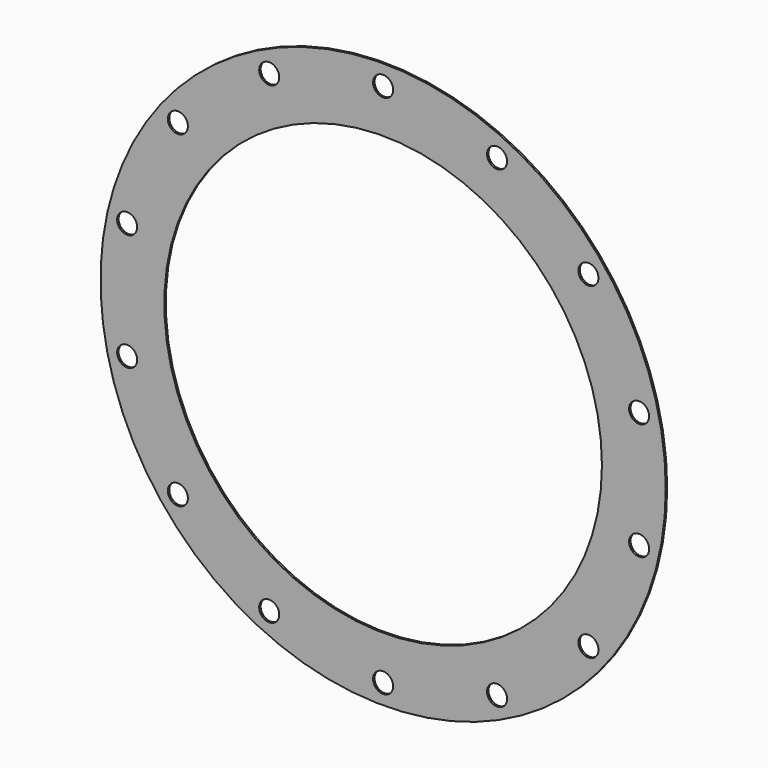
from build123d import *

# Parameters (mm, degrees)
F0_R     = 492.125
F0_R_2   = 17.4625
F0_R_3   = 381
F1_DEPTH = 3.175


with BuildPart() as f1:
    # F0 (on Front) → F1 (new body)
    with BuildSketch(Plane.XZ):
        Circle(F0_R)
        with Locations((-357.453354, -285.059537)):
            Circle(F0_R_2, mode=Mode.SUBTRACT)
        with Locations((-198.371646, -411.922966)):
            Circle(F0_R_2, mode=Mode.SUBTRACT)
        with Locations((0, -457.2)):
            Circle(F0_R_2, mode=Mode.SUBTRACT)
        with Locations((-445.737041, -101.736571)):
            Circle(F0_R_2, mode=Mode.SUBTRACT)
        Circle(F0_R_3, mode=Mode.SUBTRACT)
        with Locations((198.371646, -411.922966)):
            Circle(F0_R_2, mode=Mode.SUBTRACT)
        with Locations((357.453354, -285.059537)):
            Circle(F0_R_2, mode=Mode.SUBTRACT)
        with Locations((445.737041, -101.736571)):
            Circle(F0_R_2, mode=Mode.SUBTRACT)
        with Locations((-445.737041, 101.736571)):
            Circle(F0_R_2, mode=Mode.SUBTRACT)
        with Locations((-357.453354, 285.059537)):
            Circle(F0_R_2, mode=Mode.SUBTRACT)
        with Locations((-198.371646, 411.922966)):
            Circle(F0_R_2, mode=Mode.SUBTRACT)
        with Locations((0, 457.2)):
            Circle(F0_R_2, mode=Mode.SUBTRACT)
        with Locations((445.737041, 101.736571)):
            Circle(F0_R_2, mode=Mode.SUBTRACT)
        with Locations((198.371646, 411.922966)):
            Circle(F0_R_2, mode=Mode.SUBTRACT)
        with Locations((357.453354, 285.059537)):
            Circle(F0_R_2, mode=Mode.SUBTRACT)
    extrude(amount=F1_DEPTH)


solid = f1.part
